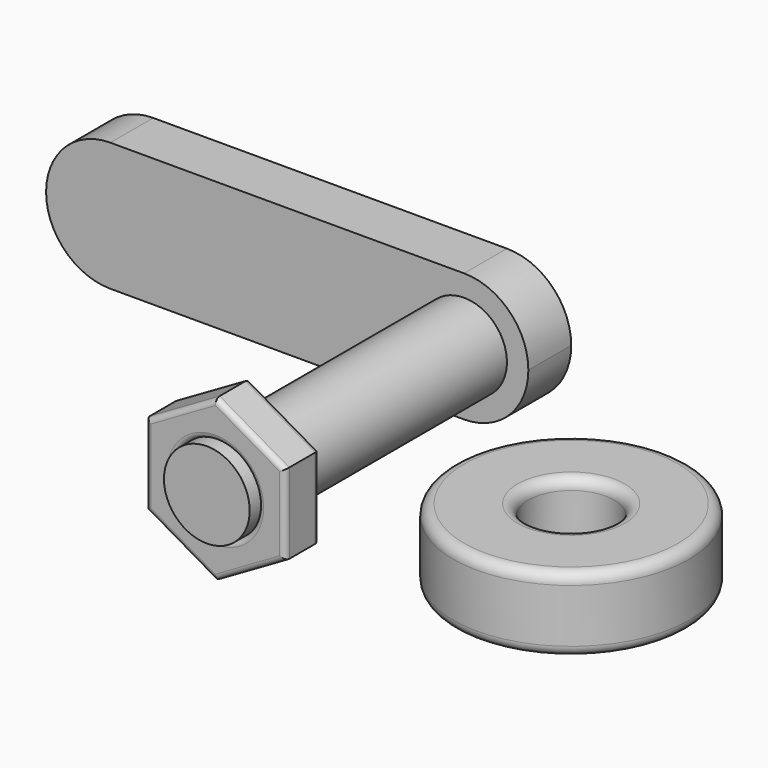
from build123d import *

# Parameters (mm, degrees)
F0_R          = 11
F0_R_2        = 4
F1_DEPTH      = 7
F2_R          = 1
F3_R          = 4
F4_DEPTH      = 4
F5_R          = 0.5
F6_R          = 4
F7_DEPTH      = 25
F7_DEPTH_BACK = 5
F8_R          = 4
F9_DEPTH      = 5
F7_FACE_R     = 4
F10_DEPTH     = 6


with BuildPart() as f1:
    # F0 (on Top) → F1 (new body)
    with BuildSketch(Plane.XY):
        Circle(F0_R)
        Circle(F0_R_2, mode=Mode.SUBTRACT)
    extrude(amount=F1_DEPTH)

    # F2
    f2_edges = [f1.edges().sort_by_distance(p)[0] for p in [
        (-11, 0, 7),
        (11, 0, 3.5),
        (-11, 0, 0),
        (-4, 0, 7),
        (4, 0, 3.5),
        (-4, 0, 0),
    ]]
    fillet(f2_edges, radius=F2_R)


with BuildPart() as f4:
    # F3 (on Front) → F4 (new body)
    with BuildSketch(Plane.XZ):
        Polygon((-23.5, -3.752777), (-23.5, 3.752777), (-30, 7.505553), (-36.5, 3.752777), (-36.5, -3.752777), (-30, -7.505553), align=None)
        with Locations((-30, 0)):
            Circle(F3_R, mode=Mode.SUBTRACT)
    extrude(amount=F4_DEPTH)

    # F5
    f5_edges = [f4.edges().sort_by_distance(p)[0] for p in [
        (-26.75, -4, -5.629165),
        (-23.5, -4, 0),
        (-26.75, -4, 5.629165),
        (-33.25, -4, 5.629165),
        (-36.5, -4, 0),
        (-33.25, -4, -5.629165),
        (-34, -4, 0),
        (-26.75, 0, -5.629165),
        (-23.5, 0, 0),
        (-26.75, 0, 5.629165),
        (-33.25, 0, 5.629165),
        (-36.5, 0, 0),
        (-33.25, 0, -5.629165),
        (-34, 0, 0),
    ]]
    fillet(f5_edges, radius=F5_R)

    # F6 (on face) → F7 (join, two sides)
    with BuildSketch(Plane(origin=(0, 0, 0), x_dir=(-1, 0, 0), z_dir=(0, 1, 0))) as f7_sk:
        with Locations((30, 0)):
            Circle(F6_R)
    extrude(amount=F7_DEPTH)
    extrude(f7_sk.sketch, amount=-F7_DEPTH_BACK)

    # F8 (on face) → F9 (join)
    with BuildSketch(Plane(origin=(0, 25, 0), x_dir=(-1, 0, 0), z_dir=(0, 1, 0))):
        with BuildLine():
            Line((63, 6), (30, 6))
            ThreePointArc((30, 6), (25.757359, 4.242641), (24, 0))
            ThreePointArc((24, 0), (25.757359, -4.242641), (30, -6))
            Line((30, -6), (63, -6))
            ThreePointArc((63, -6), (67.242641, -4.242641), (69, 0))
            ThreePointArc((69, 0), (67.242641, 4.242641), (63, 6))
        make_face()
        with Locations((30, 0)):
            Circle(F8_R, mode=Mode.SUBTRACT)
    extrude(amount=F9_DEPTH)

    # F7_face (on face) → F10 (join)
    with BuildSketch(Plane(origin=(-30, 25, 0), x_dir=(-1, 0, 0), z_dir=(0, 1, 0))):
        Circle(F7_FACE_R)
    extrude(amount=F10_DEPTH)


solid = Compound([f1.part, f4.part])
